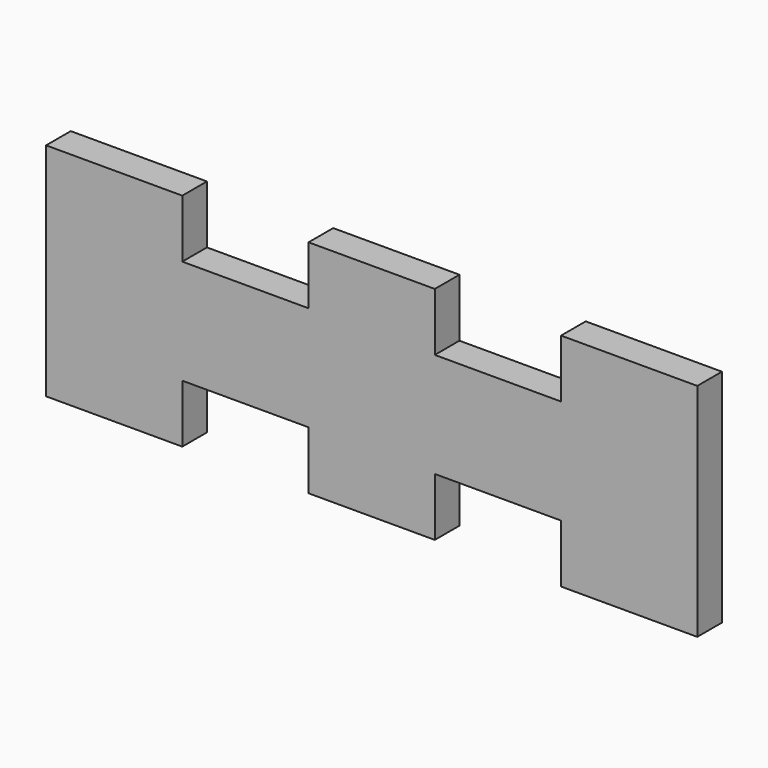
from build123d import *

# Parameters (mm, degrees)
F1_DEPTH = 3.0988


with BuildPart() as f1:
    # F0 (on Front) → F1 (new body)
    with BuildSketch(Plane.XZ):
        Polygon((-19.05, 11.1125), (-31.75, 11.1125), (-32.75, 11.1125), (-32.75, -11.1125), (-31.75, -11.1125), (-19.05, -11.1125), (-19.05, -5.2705), (-6.35, -5.2705), (-6.35, -11.1125), (6.35, -11.1125), (6.35, -5.2705), (19.05, -5.2705), (19.05, -11.1125), (31.75, -11.1125), (32.75, -11.1125), (32.75, 11.1125), (31.75, 11.1125), (19.05, 11.1125), (19.05, 5.2705), (6.35, 5.2705), (6.35, 11.1125), (-6.35, 11.1125), (-6.35, 5.2705), (-19.05, 5.2705), align=None)
    extrude(amount=F1_DEPTH)


solid = f1.part
